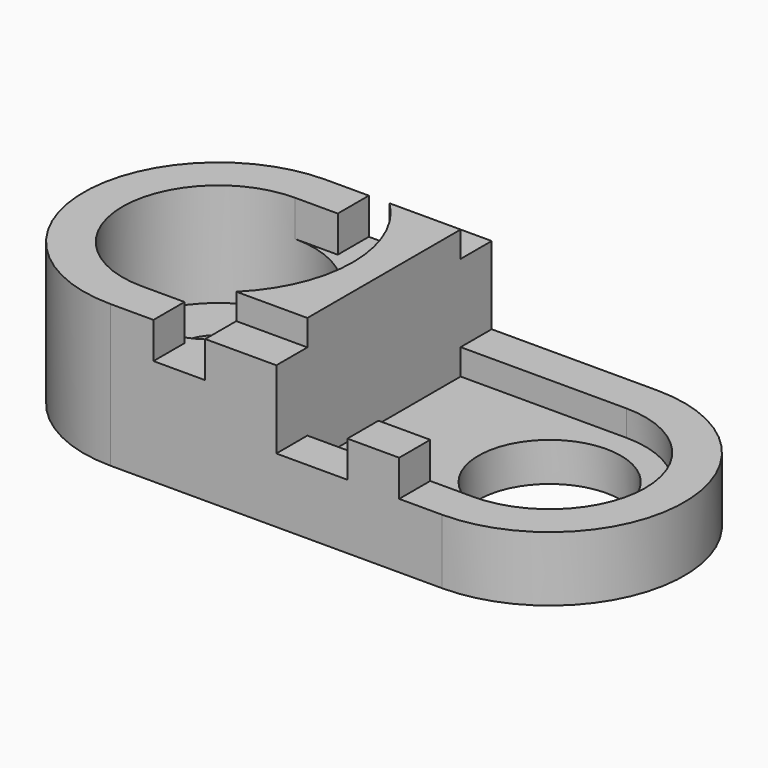
from build123d import *

# Parameters (mm, degrees)
F1_DEPTH  = 1.5
F3_DEPTH  = 4
F4_DEPTH  = 1
F6_DEPTH  = 2.6
F7_R      = 1.6
F7_R_2    = 2.75
F8_DEPTH  = 1.501
F10_DEPTH = 5
F11_W     = 2
F11_H     = 1.5
F12_DEPTH = 1.4
F13_W     = 2
F13_H     = 1.5
F14_DEPTH = 1.4


with BuildPart() as f1:
    # F0 (on Top) → F1 (new body)
    with BuildSketch(Plane.XY):
        with BuildLine():
            Line((6.4, 5.2), (-6.4, 5.2))
            ThreePointArc((-6.4, 5.2), (-11.6, 0), (-6.4, -5.2))
            Line((-6.4, -5.2), (6.4, -5.2))
            ThreePointArc((6.4, -5.2), (11.6, 0), (6.4, 5.2))
        make_face()
    extrude(amount=F1_DEPTH)

    # F2 (on face) → F3 (join)
    with BuildSketch(Plane.XY.offset(1.5)):
        with BuildLine():
            Line((0, 5.2), (-6.4, 5.2))
            ThreePointArc((-6.4, 5.2), (-11.6, 0), (-6.4, -5.2))
            Line((-6.4, -5.2), (0, -5.2))
            Line((0, -5.2), (0, -3.7))
            Line((0, -3.7), (-6.4, -3.7))
            ThreePointArc((-6.4, -3.7), (-10.1, 0), (-6.4, 3.7))
            Line((-6.4, 3.7), (0, 3.7))
            Line((0, 3.7), (0, 5.2))
        make_face()
    extrude(amount=F3_DEPTH)

    # F2 (on face) → F4 (join)
    with BuildSketch(Plane.XY.offset(1.5)):
        with BuildLine():
            Line((6.4, 5.2), (0, 5.2))
            Line((0, 5.2), (0, 3.7))
            Line((0, 3.7), (6.4, 3.7))
            ThreePointArc((6.4, 3.7), (10.1, 0), (6.4, -3.7))
            Line((6.4, -3.7), (0, -3.7))
            Line((0, -3.7), (0, -5.2))
            Line((0, -5.2), (6.4, -5.2))
            ThreePointArc((6.4, -5.2), (11.6, 0), (6.4, 5.2))
        make_face()
    extrude(amount=F4_DEPTH)

    # F5 (on face) → F6 (join)
    with BuildSketch(Plane.XY.offset(1.5)):
        with BuildLine():
            Line((-6.4, -3.7), (-2.746235, -3.7))
            ThreePointArc((-2.746235, -3.7), (-1.2, 0), (-2.746235, 3.7))
            Line((-2.746235, 3.7), (-6.4, 3.7))
            ThreePointArc((-6.4, 3.7), (-2.7, 0), (-6.4, -3.7))
        make_face()
    extrude(amount=F6_DEPTH)

    # F7 (on face) → F8 (cut, through all)
    with BuildSketch(Plane.XY.offset(1.5)):
        with Locations((-6.4, 0)):
            Circle(F7_R)
        with Locations((6.4, 0)):
            Circle(F7_R_2)
    extrude(amount=-F8_DEPTH, mode=Mode.SUBTRACT)

    # F9 (on face) → F10 (join)
    with BuildSketch(Plane.XY.offset(1.5)):
        with BuildLine():
            Line((-2.746235, -3.7), (0, -3.7))
            Line((0, -3.7), (0, 3.7))
            Line((0, 3.7), (-2.746235, 3.7))
            ThreePointArc((-2.746235, 3.7), (-1.2, 0), (-2.746235, -3.7))
        make_face()
    extrude(amount=F10_DEPTH)

    # F11 (on face) → F12 (cut, through all)
    with BuildSketch(Plane.XY.offset(5.5)):
        with Locations((-3.746235, -4.45)):
            Rectangle(F11_W, F11_H)
        with Locations((-3.746235, 4.45)):
            Rectangle(F11_W, F11_H)
    extrude(amount=-F12_DEPTH, mode=Mode.SUBTRACT)

    # F13 (on face) → F14 (join)
    with BuildSketch(Plane.XY.offset(2.5)):
        with Locations((3.746235, -4.45)):
            Rectangle(F13_W, F13_H)
    extrude(amount=F14_DEPTH)


solid = f1.part
